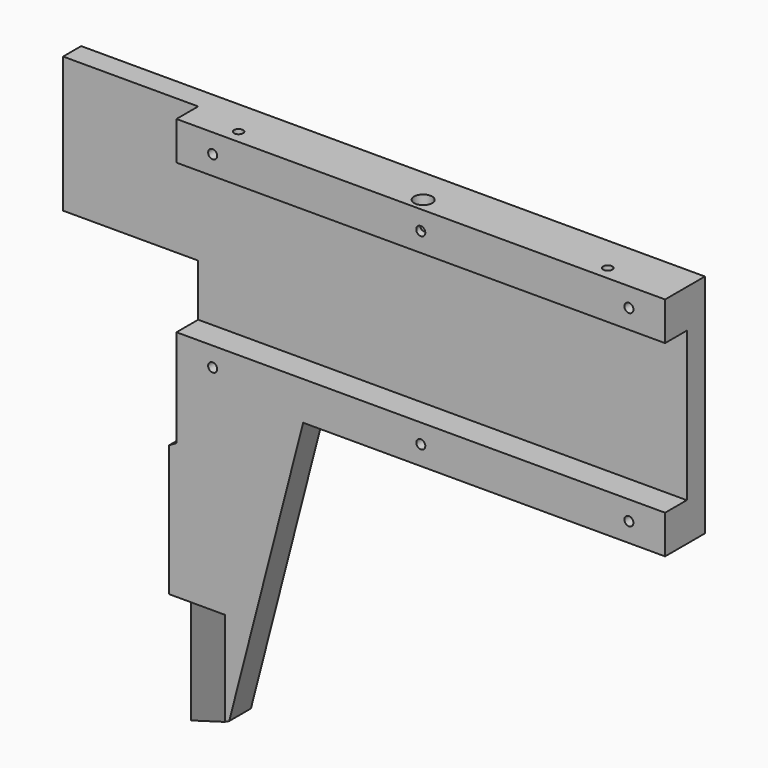
from build123d import *

# Parameters (mm, degrees)
F1_DEPTH  = 5.5
F3_DEPTH  = 3
F4_R      = 0.5
F5_DEPTH  = 1.125
F9_DEPTH  = 12.5
F10_W     = 14.8
F10_H     = 2.5
F11_DEPTH = 47
F13_DEPTH = 13.5
F14_R     = 0.5
F15_DEPTH = 4.25
F16_R     = 1
F17_DEPTH = 4.25


with BuildPart() as f1:
    # F0 (on Front) → F1 (new body)
    with BuildSketch(Plane.XZ):
        Polygon((0, -12.5), (0, 12.5), (-68.93, 12.5), (-68.93, -2.5), (-54, -2.5), (-54, -19.0381197846), (-54.8, -19.5), (-54.8, -47.5), (-48.1705947427, -44.1845815863), (-40, -12.5), align=None)
    extrude(amount=F1_DEPTH)

    # F2 (on face) → F3 (cut)
    with BuildSketch(Plane.XZ.offset(5.5)):
        Polygon((0, -8.25), (0, 8.25), (-54, 8.25), (-54, 31.9336503744), (-73.7788975239, 31.9336503744), (-73.7788975239, -2.5), (-54, -2.5), (-54, -8.25), align=None)
    extrude(amount=-F3_DEPTH, mode=Mode.SUBTRACT)

    # F4 (on face) → F5 (cut)
    with BuildSketch(Plane.XZ.offset(5.5)):
        with Locations((-4, 10.375)):
            Circle(F4_R)
        with Locations((-27, 10.375)):
            Circle(F4_R)
        with Locations((-50, 10.375)):
            Circle(F4_R)
        with Locations((-50, -10.375)):
            Circle(F4_R)
        with Locations((-27, -10.375)):
            Circle(F4_R)
        with Locations((-4, -10.375)):
            Circle(F4_R)
    extrude(amount=-F5_DEPTH, mode=Mode.SUBTRACT)

    # F8 (on offset) → F9 (cut)
    with BuildSketch(Plane.XY.offset(30)):
        Polygon((-67.1257596039, 0), (-62, -2.5), (-62, 0), align=None)
    extrude(amount=-F9_DEPTH, mode=Mode.SUBTRACT)

    # F10 (on face) → F11 (cut)
    with BuildSketch(Plane(origin=(0, 0, -12.5), x_dir=(1, 0, 0), z_dir=(0, 0, -1))):
        with Locations((-47.4, 1.25)):
            Rectangle(F10_W, F10_H)
    extrude(amount=F11_DEPTH, mode=Mode.SUBTRACT)

    # F12 (on plane+point) → F13 (cut)
    with BuildSketch(Plane(origin=(0, 0, -47.5), x_dir=(1, 0, 0), z_dir=(0, 0, -1))):
        Polygon((-48.6490884753, 5.5), (-54.8, 5.5), (-54.8, 2.5), align=None)
    extrude(amount=-F13_DEPTH, mode=Mode.SUBTRACT)

    # F14 (on face) → F15 (cut, through all)
    with BuildSketch(Plane.XY.offset(12.5)):
        with Locations((-7.54, -4)):
            Circle(F14_R)
        with Locations((-48.34, -4)):
            Circle(F14_R)
    extrude(amount=-F15_DEPTH, mode=Mode.SUBTRACT)

    # F16 (on face) → F17 (cut, through all)
    with BuildSketch(Plane.XY.offset(12.5)):
        with Locations((-27.94, -4)):
            Circle(F16_R)
    extrude(amount=-F17_DEPTH, mode=Mode.SUBTRACT)


solid = f1.part
